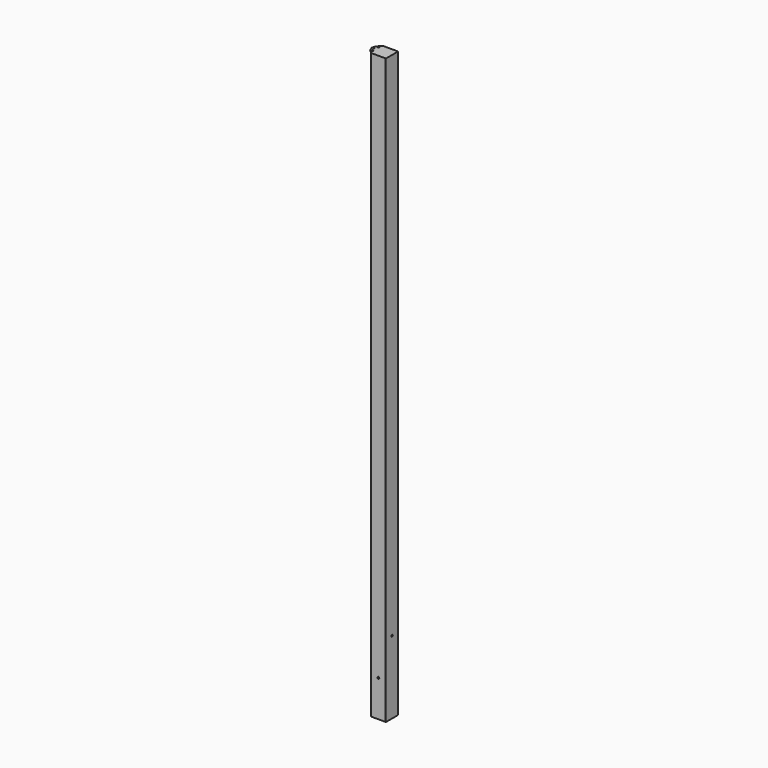
from build123d import *

# Parameters (mm, degrees)
F0_W      = 127
F0_H      = 127
F0_W_2    = 114.3
F0_H_2    = 114.3
F1_DEPTH  = 4876.8
F2_R      = 5.08
F4_DEPTH  = 127
F5_R      = 7.9375
F6_DEPTH  = 127
F8_DEPTH  = 6.35
F9_R      = 6.35
F10_DEPTH = 6.35


with BuildPart() as f1:
    # F0 (on Top) → F1 (new body)
    with BuildSketch(Plane.XY):
        with Locations((-63.5, -63.5)):
            Rectangle(F0_W, F0_H)
        with Locations((-63.5, -63.5)):
            Rectangle(F0_W_2, F0_H_2, mode=Mode.SUBTRACT)
    extrude(amount=F1_DEPTH)

    # F2
    f2_edges = [f1.edges().sort_by_distance(p)[0] for p in [
        (-127, 0, 2438.4),
        (-6.35, -6.35, 2438.4),
        (0, -127, 2438.4),
        (-127, -127, 2438.4),
        (-120.65, -6.35, 2438.4),
        (-120.65, -120.65, 2438.4),
        (0, 0, 2438.4),
        (-6.35, -120.65, 2438.4),
    ]]
    fillet(f2_edges, radius=F2_R)

    # F3 (on face) → F4 (cut)
    with BuildSketch(Plane(origin=(0, 0, 0), x_dir=(-1, 0, 0), z_dir=(0, 1, 0))):
        with BuildLine():
            ThreePointArc((63.5, 312.7375), (55.5625, 304.8), (63.5, 296.8625))
            Line((63.5, 296.8625), (63.5, 312.7375))
        make_face()
        with BuildLine():
            Line((63.5, 312.7375), (63.5, 296.8625))
            ThreePointArc((63.5, 296.8625), (69.1126600757, 299.1873399243), (71.4375, 304.8))
            ThreePointArc((71.4375, 304.8), (69.1126600757, 310.4126600757), (63.5, 312.7375))
        make_face()
    extrude(amount=-F4_DEPTH, mode=Mode.SUBTRACT)

    # F5 (on face) → F6 (cut)
    with BuildSketch(Plane(origin=(-127, 0, 0), x_dir=(0, -1, 0), z_dir=(-1, 0, 0))):
        with Locations((63.5, 609.6)):
            Circle(F5_R)
    extrude(amount=-F6_DEPTH, mode=Mode.SUBTRACT)

    # F7 (on face) → F8 (join)
    with BuildSketch(Plane.XY.offset(4876.8)):
        with BuildLine():
            Line((-156.68625, -95.25), (-126.9791512147, -122.3797705801))
            ThreePointArc((-126.9791512147, -122.3797705801), (-126.994785127, -122.1501215213), (-127, -121.92))
            Line((-127, -121.92), (-127, -5.08))
            ThreePointArc((-127, -5.08), (-126.994785127, -4.8498784787), (-126.9791512147, -4.6202294199))
            Line((-126.9791512147, -4.6202294199), (-156.68625, -31.75))
            Line((-156.68625, -31.75), (-168.275, -63.5))
            Line((-168.275, -63.5), (-156.68625, -95.25))
        make_face()
        with BuildLine():
            Line((-121.92, -127), (-5.08, -127))
            ThreePointArc((-5.08, -127), (-1.4878975516, -125.5121024484), (0, -121.92))
            Line((0, -121.92), (0, -5.08))
            ThreePointArc((0, -5.08), (-1.4878975516, -1.4878975516), (-5.08, 0))
            Line((-5.08, 0), (-121.92, 0))
            Line((-121.92, 0), (-126.9791512147, -4.6202294199))
            ThreePointArc((-126.9791512147, -4.6202294199), (-126.994785127, -4.8498784787), (-127, -5.08))
            Line((-127, -5.08), (-127, -121.92))
            ThreePointArc((-127, -121.92), (-126.994785127, -122.1501215213), (-126.9791512147, -122.3797705801))
            Line((-126.9791512147, -122.3797705801), (-121.92, -127))
        make_face()
        with BuildLine():
            ThreePointArc((-11.43, -6.35), (-7.8378975516, -7.8378975516), (-6.35, -11.43))
            Line((-6.35, -11.43), (-6.35, -115.57))
            ThreePointArc((-6.35, -115.57), (-7.8378975516, -119.1621024484), (-11.43, -120.65))
            Line((-11.43, -120.65), (-115.57, -120.65))
            ThreePointArc((-115.57, -120.65), (-119.1621024484, -119.1621024484), (-120.65, -115.57))
            Line((-120.65, -115.57), (-120.65, -11.43))
            ThreePointArc((-120.65, -11.43), (-119.1621024484, -7.8378975516), (-115.57, -6.35))
            Line((-115.57, -6.35), (-11.43, -6.35))
        make_face(mode=Mode.SUBTRACT)
        with BuildLine():
            Line((-6.35, -115.57), (-6.35, -11.43))
            ThreePointArc((-6.35, -11.43), (-7.8378975516, -7.8378975516), (-11.43, -6.35))
            Line((-11.43, -6.35), (-115.57, -6.35))
            ThreePointArc((-115.57, -6.35), (-119.1621024484, -7.8378975516), (-120.65, -11.43))
            Line((-120.65, -11.43), (-120.65, -115.57))
            ThreePointArc((-120.65, -115.57), (-119.1621024484, -119.1621024484), (-115.57, -120.65))
            Line((-115.57, -120.65), (-11.43, -120.65))
            ThreePointArc((-11.43, -120.65), (-7.8378975516, -119.1621024484), (-6.35, -115.57))
        make_face()
    extrude(amount=F8_DEPTH)

    # F9 (on face) → F10 (cut)
    with BuildSketch(Plane.XY.offset(4883.15)):
        with Locations((-138.7475, -31.75)):
            Circle(F9_R)
        with Locations((-152.4073928595, -63.5)):
            Circle(F9_R)
        with Locations((-138.7475, -95.25)):
            Circle(F9_R)
    extrude(amount=-F10_DEPTH, mode=Mode.SUBTRACT)


solid = f1.part
